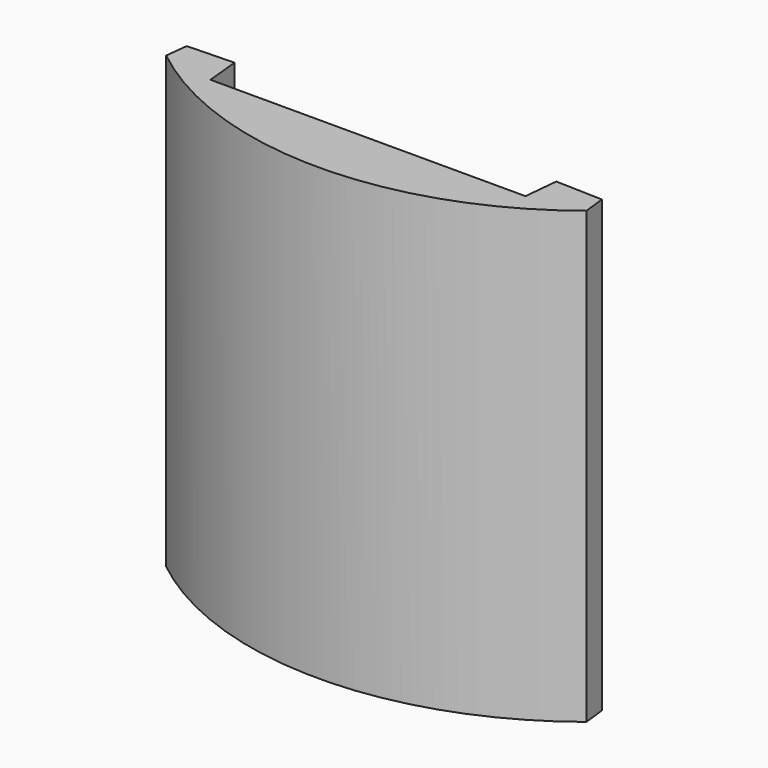
from build123d import *

# Parameters (mm, degrees)
F1_DEPTH = 4000


with BuildPart() as f1:
    # F0 (on Top) → F1 (new body)
    with BuildSketch(Plane.XY):
        with BuildLine():
            Line((-1844.868826, -2147.446065), (-1868.019532, -2347.446065))
            ThreePointArc((-1868.019532, -2347.446065), (0, -3000), (1868.019532, -2347.446065))
            Line((1868.019532, -2347.446065), (1844.868826, -2147.446065))
            Line((1844.868826, -2147.446065), (1430, -2135))
            Line((1430, -2135), (1400, -2440))
            Line((1400, -2440), (0, -2440))
            Line((0, -2440), (-1400, -2440))
            Line((-1400, -2440), (-1430, -2135))
            Line((-1430, -2135), (-1844.868826, -2147.446065))
        make_face()
    extrude(amount=F1_DEPTH)


solid = f1.part
